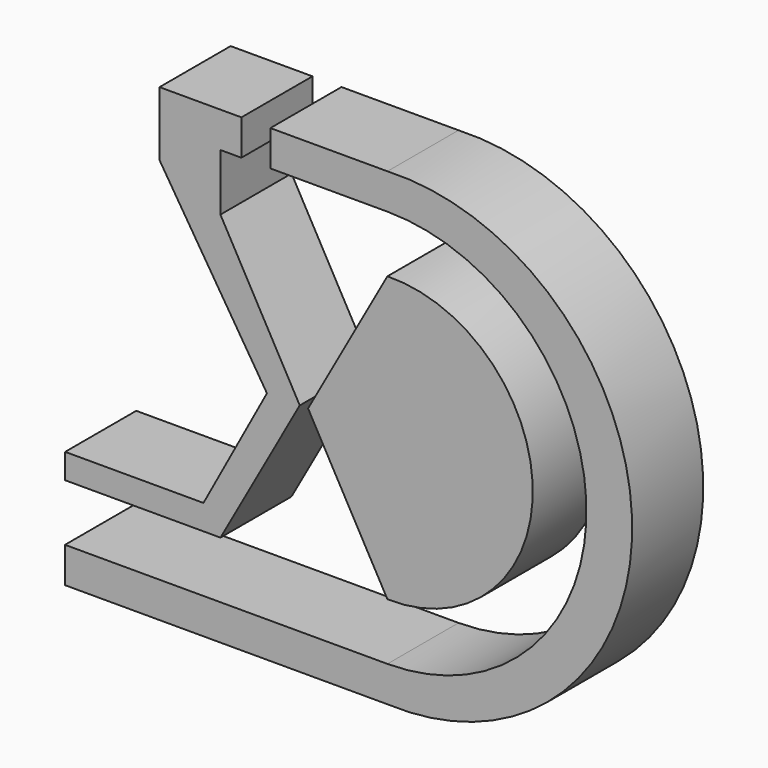
from build123d import *

# Parameters (mm, degrees)
F1_DEPTH = 25


with BuildPart() as f1:
    # F0 (on Front) → F1 (new body)
    with BuildSketch(Plane.XZ):
        with BuildLine():
            ThreePointArc((23.488847, 56), (79.488847, 0), (23.488847, -56))
            Line((23.488847, -56), (-67.221503, -56))
            Line((-67.221503, -56), (-67.221503, -66))
            Line((-67.221503, -66), (23.488847, -66))
            ThreePointArc((23.488847, -66), (92.343168, 0), (23.488847, 66))
            Line((23.488847, 66), (-9.438657, 66))
            Line((-9.438657, 66), (-9.438657, 56))
            Line((-9.438657, 56), (23.488847, 56))
        make_face()
        with BuildLine():
            Line((23.488847, 40), (1.174515, 0))
            Line((1.174515, 0), (23.488847, -40))
            ThreePointArc((23.488847, -40), (64.384039, 0), (23.488847, 40))
        make_face()
        Polygon((-23.488847, -40), (-1.174515, 0), (-23.488847, 40), (-23.488847, 56), (-17.595538, 56), (-17.595538, 66), (-40.624071, 66), (-40.624071, 47.91715), (-10.406044, 0), (-28.26215, -32.965118), (-67.179307, -32.965118), (-67.179307, -40), align=None)
    extrude(amount=F1_DEPTH)


solid = f1.part
